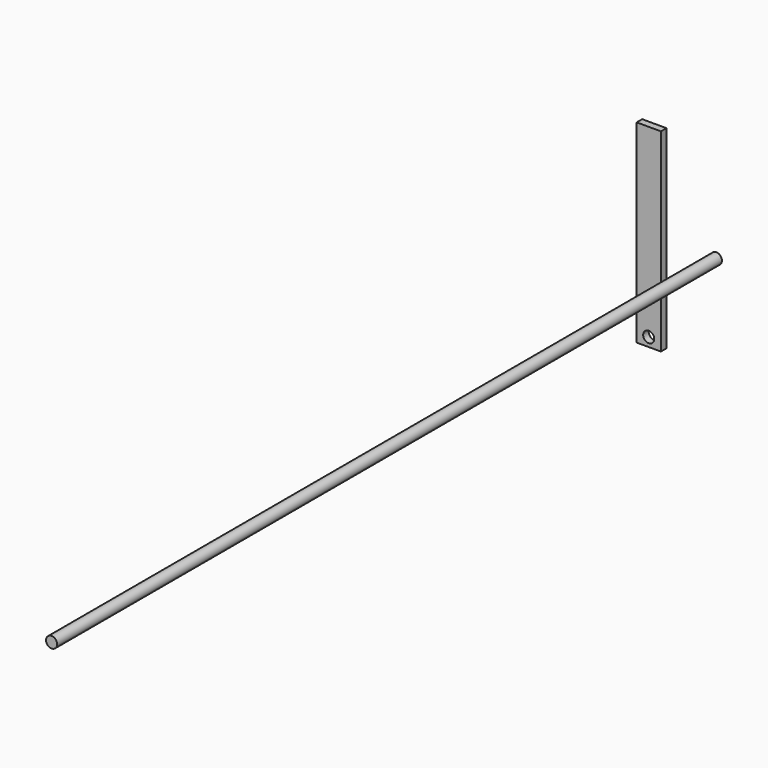
from build123d import *

# Parameters (mm, degrees)
F0_W     = 87.596905
F0_H     = 700
F0_R     = 20
F1_DEPTH = 25
F2_R     = 20
F3_DEPTH = 3000


with BuildPart() as f1:
    # F0 (on Front) → F1 (new body)
    with BuildSketch(Plane.XZ):
        with Locations((20.335197, -212.827265)):
            Rectangle(F0_W, F0_H)
        with Locations((20.009263, -530.676491)):
            Circle(F0_R, mode=Mode.SUBTRACT)
    extrude(amount=F1_DEPTH)


with BuildPart() as f3:
    # F2 (on Front) → F3 (new body)
    with BuildSketch(Plane.XZ):
        with Locations((244.314194, -218.57588)):
            Circle(F2_R)
    extrude(amount=F3_DEPTH)


solid = Compound([f1.part, f3.part])
